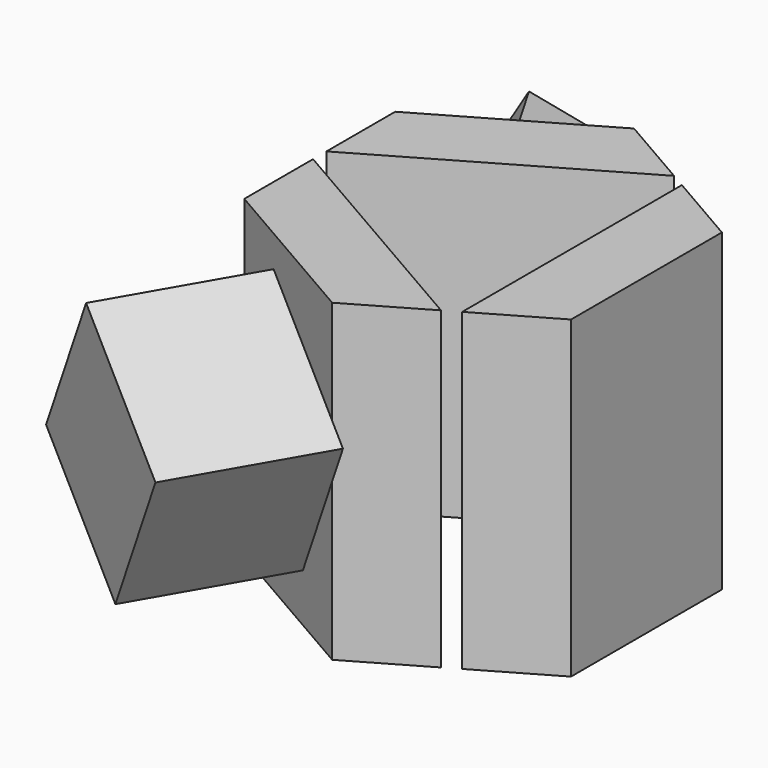
from build123d import *

# Parameters (mm, degrees)
F1_DEPTH = 50
F3_DEPTH = 50
F5_DEPTH = 25
F7_DEPTH = 25


with BuildPart() as f1:
    # F0 (on Top) → F1 (new body)
    with BuildSketch(Plane.XY):
        Polygon((-25.9807621135, 15), (-25.9807621135, -15), (0, -30), (25.9807621135, -15), (25.9807621135, 15), (0, 30), align=None)
    extrude(amount=F1_DEPTH)

    # F2 (on face) → F3 (cut)
    with BuildSketch(Plane.XY.offset(50)):
        Polygon((14.1450815951, 24.5), (-28.2901631903, 0), (14.1450815951, -24.5), align=None)
    extrude(amount=-F3_DEPTH, mode=Mode.SUBTRACT)

    # F4 (on face) → F5 (join)
    with BuildSketch(Plane(origin=(-12.9903810568, -22.5, 0), x_dir=(0.8660254038, -0.5, 0), z_dir=(-0.5, -0.8660254038, 0))):
        Polygon((-5, 45), (-18.6602540378, 21.3397459622), (5, 7.6794919243), (18.6602540378, 31.3397459622), align=None)
    extrude(amount=F5_DEPTH)

    # F6 (on face) → F7 (join)
    with BuildSketch(Plane(origin=(-12.9903810568, 22.5, 0), x_dir=(-0.8660254038, -0.5, 0), z_dir=(-0.5, 0.8660254038, 0))):
        Polygon((-2, 26.0717967697), (7.4641016151, 31.5358983849), (2, 41), (-7.4641016151, 35.5358983849), align=None)
    extrude(amount=F7_DEPTH)


solid = f1.part
